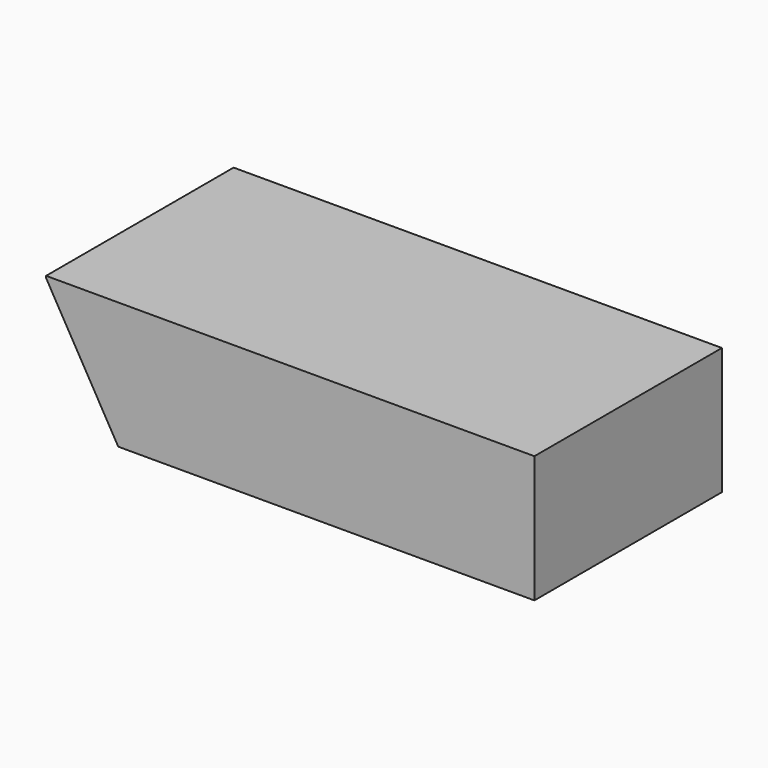
from build123d import *

# Parameters (mm, degrees)
BOX012_W               = 250
BOX012_H               = 120
BOX012_DEPTH           = 65
BOX012_PLACEMENT_ANGLE = 60
BOX013_W               = 250
BOX013_H               = 120
BOX013_DEPTH           = 65
CUT008_PLACEMENT_ANGLE = 180


with BuildPart() as box012:
    # Box012 → Box012 (new body)
    with BuildSketch(Plane.XY):
        with Locations((125, 60)):
            Rectangle(BOX012_W, BOX012_H)
    extrude(amount=BOX012_DEPTH)


with BuildPart() as box012_1:
    # Box012 placement: moved
    add(box012.part.moved(Location((187.927513, 0, 108.5))).rotate(Axis((187.927513, 0, 108.5), (0, 1, 0)), BOX012_PLACEMENT_ANGLE))


with BuildPart() as cut008:
    # Box013 → Box013 (new body)
    with BuildSketch(Plane.XY):
        with Locations((125, 60)):
            Rectangle(BOX013_W, BOX013_H)
    extrude(amount=BOX013_DEPTH)

    # Cut008: cut Box012
    add(box012_1.part, mode=Mode.SUBTRACT)


with BuildPart() as cut008_1:
    # Cut008 placement: moved
    add(cut008.part.moved(Location((469, 0, 64))).rotate(Axis((469, 0, 64), (0, 1, 0)), CUT008_PLACEMENT_ANGLE))


solid = cut008_1.part
